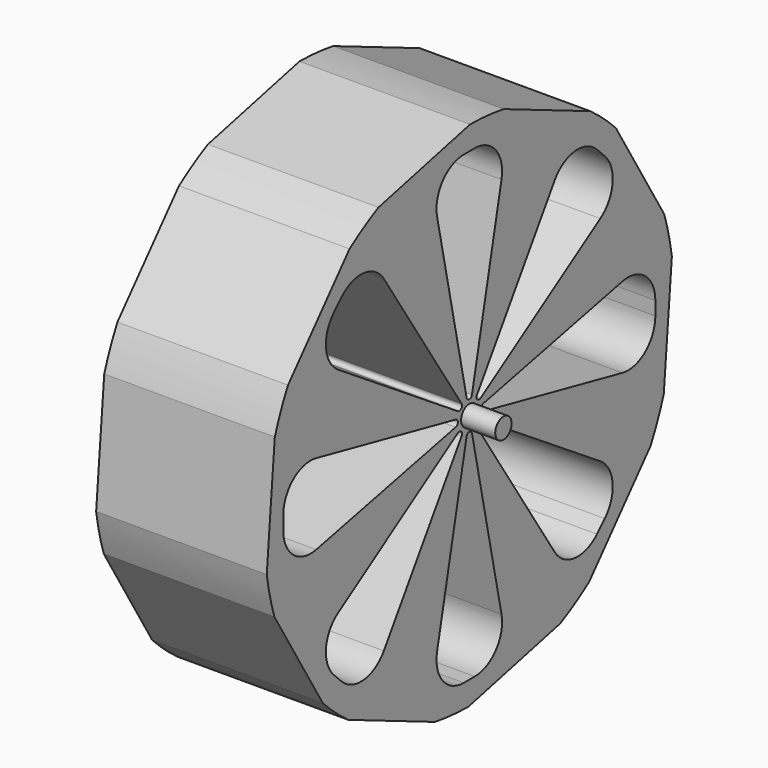
from build123d import *

# Parameters (mm, degrees)
F0_R     = 37.5
F1_DEPTH = 12.5
F3_DEPTH = 12.5
F4_COUNT = 8
F6_DEPTH = 12.5
F7_R     = 1.5
F8_DEPTH = 17.5


with BuildPart() as f1:
    # F0 (on Right) → F1 (new body, symmetric)
    with BuildSketch(Plane.YZ):
        Circle(F0_R)
    extrude(amount=F1_DEPTH, both=True)

    # F2 (on Right) → F3 (cut, symmetric)
    with BuildSketch(Plane.YZ):
        with BuildLine():
            ThreePointArc((5.8991823905, 28.0400841101), (4.892101729, 32.223904361), (1.0076208802, 34.075760696))
            Line((1.0076208802, 34.075760696), (-1.0076208802, 34.075760696))
            ThreePointArc((-1.0076208802, 34.075760696), (-4.892101729, 32.223904361), (-5.8991823905, 28.0400841101))
            Line((-5.8991823905, 28.0400841101), (-0.489156151, 2.4882115641))
            ThreePointArc((-0.489156151, 2.4882115641), (0, 2.0917792227), (0.489156151, 2.4882115641))
            Line((0.489156151, 2.4882115641), (5.8991823905, 28.0400841101))
        make_face()
    f3 = extrude(amount=F3_DEPTH, both=True, mode=Mode.SUBTRACT)

    # F4: F3 ×8 about axis
    f4_axis = Axis((12.5, 0, 0), (1, 0, 0))
    for i in range(1, F4_COUNT):
        add(f3.rotate(f4_axis, i * 360 / F4_COUNT), mode=Mode.SUBTRACT)

    # F5 (on Right) → F6 (intersect, symmetric)
    with BuildSketch(Plane.YZ):
        Polygon((37.3855511828, 8.6729428424), (25.1477183542, 28.9912337848), (3.3043118538, 38.2358587972), (-19.8012294653, 32.8756853382), (-35.3433741477, 14.9581174833), (-37.3855511828, -8.6729428424), (-25.1477183542, -28.9912337848), (-3.3043118538, -38.2358587972), (19.8012294653, -32.8756853382), (35.3433741477, -14.9581174833), align=None)
    extrude(amount=F6_DEPTH, both=True, mode=Mode.INTERSECT)

    # F7 (on Right) → F8 (join, symmetric)
    with BuildSketch(Plane.YZ):
        Circle(F7_R)
    extrude(amount=F8_DEPTH, both=True)


solid = f1.part
